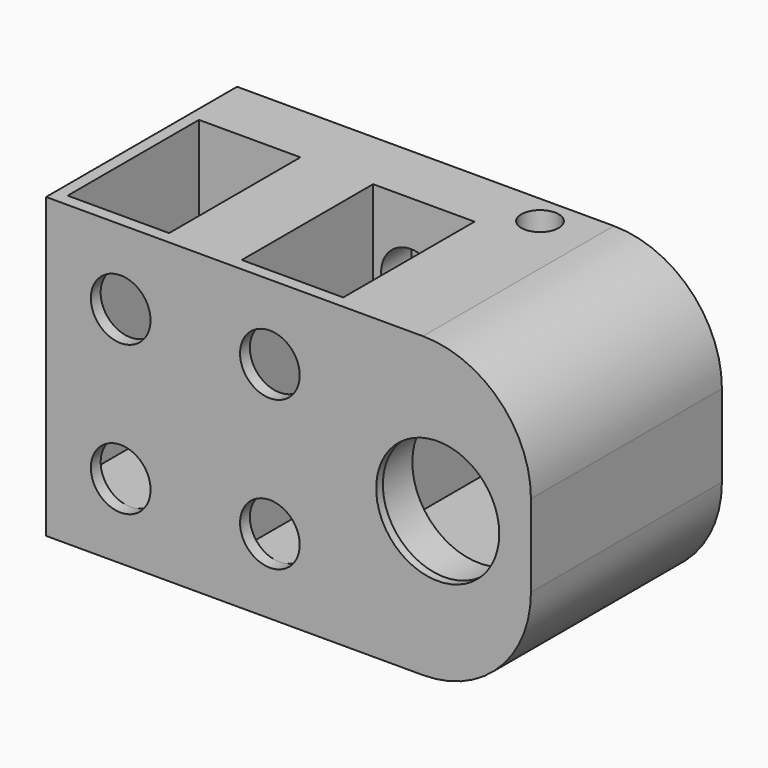
from build123d import *

# Parameters (mm, degrees)
F0_W      = 50.8
F0_H      = 50.8
F0_R      = 3.4925
F1_DEPTH  = 38.1
F2_W      = 17.272
F2_H      = 27.94
F3_DEPTH  = 43.18
F4_R      = 5.08
F5_DEPTH  = 36.449
F6_DEPTH  = 2.54
F7_DEPTH  = 31.75
F9_W      = 31.1426110566
F9_H      = 46.6452091932
F10_DEPTH = 31.75
F8_R      = 10.4775
F11_DEPTH = 25.4
F12_R     = 11.43
F13_DEPTH = 7.4676
F14_DEPTH = 10.16
F15_DEPTH = 10.16
F16_R     = 18.3963073453
F17_R     = 3.175
F18_DEPTH = 57.912


with BuildPart() as f1:
    # F0 (on Front) → F1 (new body)
    with BuildSketch(Plane.XZ):
        Rectangle(F0_W, F0_H)
        with Locations((-12.7, -12.7)):
            Circle(F0_R, mode=Mode.SUBTRACT)
        with Locations((12.7, -12.7)):
            Circle(F0_R, mode=Mode.SUBTRACT)
        with Locations((-12.7, 12.7)):
            Circle(F0_R, mode=Mode.SUBTRACT)
        with Locations((12.7, 12.7)):
            Circle(F0_R, mode=Mode.SUBTRACT)
    extrude(amount=F1_DEPTH)

    # F2 (on face) → F3 (cut)
    with BuildSketch(Plane.XY.offset(25.4)):
        with Locations((14.8867284879, -22.0405142754)):
            Rectangle(F2_W, F2_H)
        with Locations((-14.7609785199, -22.0405142754)):
            Rectangle(F2_W, F2_H)
    extrude(amount=-F3_DEPTH, mode=Mode.SUBTRACT)

    # F4 (on face) → F5 (cut)
    with BuildSketch(Plane.XZ.offset(38.1)):
        with Locations((-12.7, 12.7)):
            Circle(F4_R)
        with Locations((12.7, 12.7)):
            Circle(F4_R)
        with Locations((-12.7, -12.7)):
            Circle(F4_R)
        with Locations((12.7, -12.7)):
            Circle(F4_R)
    extrude(amount=-F5_DEPTH, mode=Mode.SUBTRACT)

    # F6 (add): a face of the model
    f6_faces = [f1.faces().sort_by_distance(p)[0] for p in [
        (0, 0, 0),
    ]]
    extrude(f6_faces, amount=F6_DEPTH)

    # F7 (add): a face of the model
    f7_faces = [f1.faces().sort_by_distance(p)[0] for p in [
        (25.4, -17.78, 0),
    ]]
    extrude(f7_faces, amount=F7_DEPTH)

    # F9 (on face) → F10 (cut)
    with BuildSketch(Plane(origin=(0, 2.54, 0), x_dir=(-1, 0, 0), z_dir=(0, 1, 0))):
        with Locations((-39.3411628902, 0)):
            Rectangle(F9_W, F9_H)
    extrude(amount=-F10_DEPTH, mode=Mode.SUBTRACT)

    # F8 (on face) → F11 (cut)
    with BuildSketch(Plane.XZ.offset(38.1)):
        with Locations((41.275, 0)):
            Circle(F8_R)
    extrude(amount=-F11_DEPTH, mode=Mode.SUBTRACT)

    # F12 (on face) → F13 (cut)
    with BuildSketch(Plane(origin=(0, -29.21, 0), x_dir=(-1, 0, 0), z_dir=(0, 1, 0))):
        with Locations((-41.275, 0)):
            Circle(F12_R)
    extrude(amount=-F13_DEPTH, mode=Mode.SUBTRACT)

    # F14 (add): a face of the model
    f14_faces = [f1.faces().sort_by_distance(p)[0] for p in [
        (39.3411628902, -13.335, 23.3226045966),
    ]]
    extrude(f14_faces, amount=F14_DEPTH)

    # F15 (add): a face of the model
    f15_faces = [f1.faces().sort_by_distance(p)[0] for p in [
        (39.3411628902, -13.335, -23.3226045966),
    ]]
    extrude(f15_faces, amount=F15_DEPTH)

    # F16
    f16_edges = [f1.edges().sort_by_distance(p)[0] for p in [
        (57.15, -17.78, 25.4),
        (57.15, -17.78, -25.4),
    ]]
    fillet(f16_edges, radius=F16_R)

    # F17 (on face) → F18 (cut, symmetric)
    with BuildSketch(Plane(origin=(0, 0, 13.1626045966), x_dir=(1, 0, 0), z_dir=(0, 0, -1))):
        with Locations((30.2186440676, 2.5074067526)):
            Circle(F17_R)
    extrude(amount=F18_DEPTH, both=True, mode=Mode.SUBTRACT)


solid = f1.part
